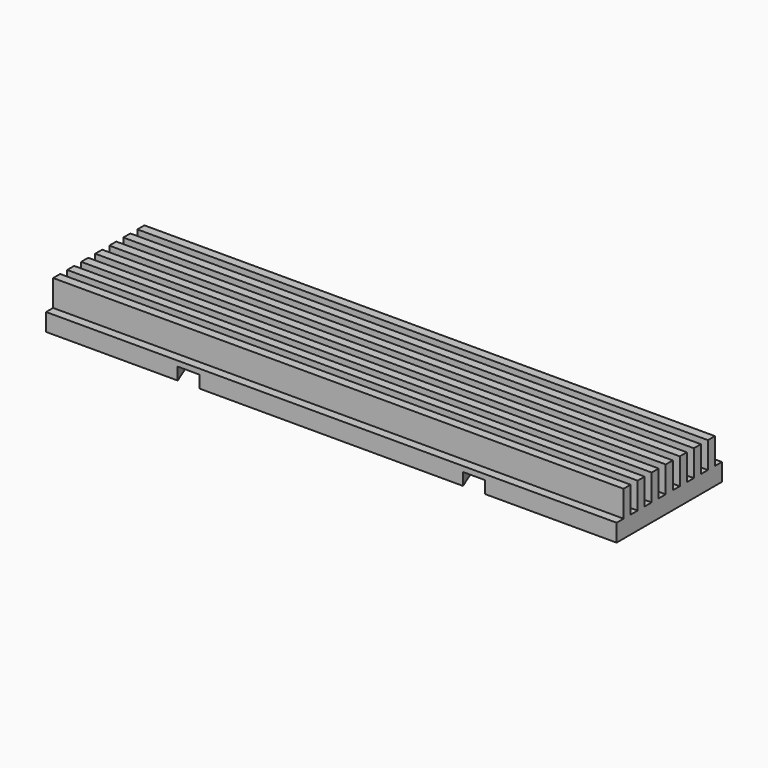
from build123d import *

# Parameters (mm, degrees)
F0_W     = 130
F0_H     = 30
F1_DEPTH = 10
F2_W     = 130
F2_H     = 2
F3_DEPTH = 6
F4_W     = 5
F4_H     = 5
F5_DEPTH = 2.8
F4_W_2   = 4
F4_H_2   = 4
F6_DEPTH = 2.8


with BuildPart() as f1:
    # F0 (on Top) → F1 (new body)
    with BuildSketch(Plane.XY):
        Rectangle(F0_W, F0_H)
    extrude(amount=F1_DEPTH)

    # F2 (on face) → F3 (cut)
    with BuildSketch(Plane.XY.offset(10)):
        with Locations((0, -14)):
            Rectangle(F2_W, F2_H)
        with Locations((0, -10)):
            Rectangle(F2_W, F2_H)
        with Locations((0, -6)):
            Rectangle(F2_W, F2_H)
        with Locations((0, -2)):
            Rectangle(F2_W, F2_H)
        with Locations((0, 2)):
            Rectangle(F2_W, F2_H)
        with Locations((0, 6)):
            Rectangle(F2_W, F2_H)
        with Locations((0, 10)):
            Rectangle(F2_W, F2_H)
        with Locations((0, 14)):
            Rectangle(F2_W, F2_H)
    extrude(amount=-F3_DEPTH, mode=Mode.SUBTRACT)

    # F4 (on face) → F5 (cut)
    with BuildSketch(Plane(origin=(0, 0, 0), x_dir=(1, 0, 0), z_dir=(0, 0, -1))):
        with Locations((-32.5, 12.5)):
            Rectangle(F4_W, F4_H)
        Polygon((-28, 10), (-30, 15), (-30, 10), align=None)
        Polygon((-35, 10), (-35, 15), (-37, 10), align=None)
        with Locations((32.5, 12.5)):
            Rectangle(F4_W, F4_H)
        Polygon((30, 10), (30, 15), (28, 10), align=None)
        Polygon((37, 10), (35, 15), (35, 10), align=None)
    extrude(amount=-F5_DEPTH, mode=Mode.SUBTRACT)

    # F4 (on face) → F6 (join)
    with BuildSketch(Plane(origin=(0, 0, 0), x_dir=(1, 0, 0), z_dir=(0, 0, -1))):
        with Locations((32, -17)):
            Rectangle(F4_W_2, F4_H_2)
        Polygon((35.5, -19), (34, -15), (34, -19), align=None)
        Polygon((30, -19), (30, -15), (28.5, -19), align=None)
        with Locations((-32, -17)):
            Rectangle(F4_W_2, F4_H_2)
        Polygon((-28.5, -19), (-30, -15), (-30, -19), align=None)
        Polygon((-34, -19), (-34, -15), (-35.9975211322, -19), align=None)
    extrude(amount=-F6_DEPTH)


solid = f1.part
